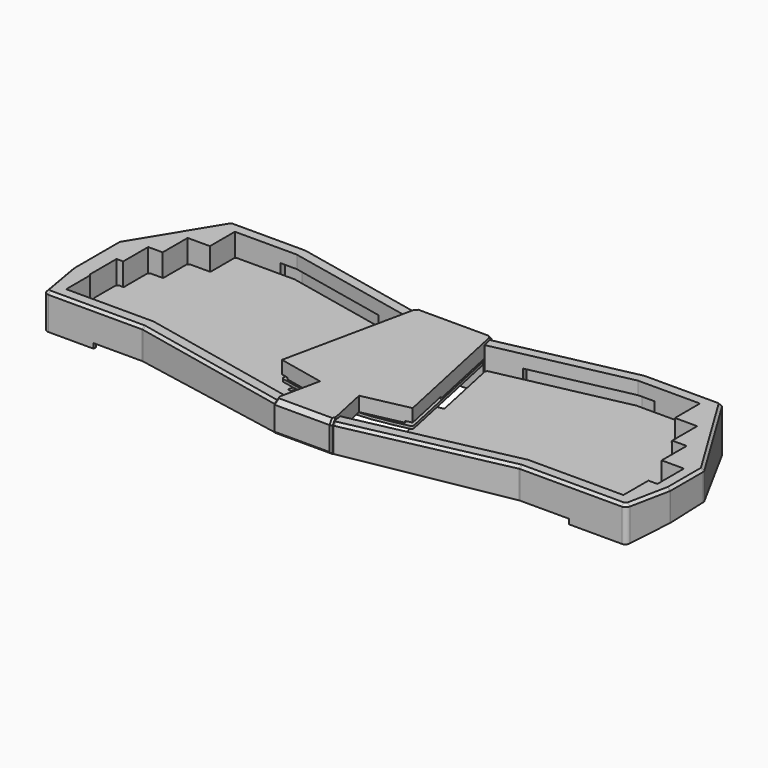
from build123d import *

# Parameters (mm, degrees)
PAD_DEPTH       = 1.6
FILLET_R        = 1.5
FILLET001_R     = 0.8
PAD001_DEPTH    = 40
POCKET_DEPTH    = 400
POCKET001_DEPTH = 50
POCKET001_TAPER = 70
POCKET002_DEPTH = 50
POCKET002_TAPER = 70
POCKET003_DEPTH = 3
POCKET005_DEPTH = 16.8
POCKET007_DEPTH = 22
POCKET012_DEPTH = 59
PAD006_DEPTH    = 3.5
PAD007_DEPTH    = 3.5
SKETCH026_W     = 15
SKETCH026_H     = 4
PAD008_DEPTH    = 3.5
SKETCH027_W     = 15
SKETCH027_H     = 4
PAD009_DEPTH    = 3.5
FILLET003_R     = 8
FILLET004_R     = 3
CHAMFER_SIZE    = 1.6
POCKET019_DEPTH = 200
SKETCH038_R     = 2
POCKET025_DEPTH = 6.7
PAD015_DEPTH    = 3.5
PAD016_DEPTH    = 3.5
POCKET035_DEPTH = 115
PAD010_DEPTH    = 1.6
FILLET002_R     = 1.5
PAD011_DEPTH    = 28.4
POCKET017_DEPTH = 50
POCKET018_DEPTH = 19.6
POCKET020_DEPTH = 26
POCKET021_DEPTH = 16
POCKET022_DEPTH = 19
POCKET023_DEPTH = 25
POCKET024_DEPTH = 1
CHAMFER001_SIZE = 2.6
CHAMFER002_SIZE = 1.2
SKETCH045_R     = 4.5
SKETCH045_R_2   = 2
PAD013_DEPTH    = 5.6
SKETCH046_R     = 2
POCKET030_DEPTH = 6.7
SKETCH047_R     = 2
POCKET031_DEPTH = 5.7
POCKET032_DEPTH = 13
CHAMFER003_SIZE = 1
SKETCH054_R     = 3.6
SKETCH054_R_2   = 2
PAD014_DEPTH    = 1
SKETCH055_W     = 19
SKETCH055_H     = 36
POCKET033_DEPTH = 1
PAD017_DEPTH    = 8
PAD018_DEPTH    = 8
FILLET005_R     = 1


with BuildPart() as pcb:
    # Sketch001 → Pad (new body)
    with BuildSketch(Plane.XY):
        with BuildLine():
            Line((-25.6569009013, 76.7143133761), (-104.1862885277, 93.40625))
            Line((-104.1862885277, 93.40625), (-140.3865264554, 93.40625))
            Line((-140.3865264554, 93.40625), (-140.3865264554, 74.35625))
            Line((-140.3865264554, 74.35625), (-153.9607289552, 74.35625))
            Line((-153.9607289552, 74.35625), (-153.9607289552, 55.30625))
            Line((-153.9607289552, 55.30625), (-162.772431455, 55.30625))
            Line((-162.772431455, 55.30625), (-162.772431455, 36.25625))
            Line((-162.772431455, 36.25625), (-166.8216339549, 36.25625))
            Line((-166.8216339549, 36.25625), (-166.8216339549, 18.7896622428))
            Line((-166.8216339549, 18.7896622428), (-166.1083364547, 18.0000001221))
            Line((-166.1083364547, 18.0000001221), (-166.1083364547, -0.25625))
            Line((-166.1083364547, -0.25625), (-114.0306139632, -0.25625))
            Line((-114.0306139632, -0.25625), (-33.0319665059, -17.4730440034))
            ThreePointArc((-33.0319665059, -17.4730440034), (0, -21.0075427473), (33.0319665059, -17.4730440034))
            Line((114.0306139632, -0.25625), (33.0319665059, -17.4730440034))
            Line((114.0306139632, -0.25625), (170.8708364547, -0.25625))
            Line((170.8708364547, -0.25625), (170.8708364547, 18.79375))
            Line((170.8708364547, 18.79375), (176.3466339549, 18.79375))
            Line((176.3466339549, 18.79375), (176.3466339549, 36.25625))
            Line((176.3466339549, 36.25625), (162.772431455, 36.25625))
            Line((162.772431455, 36.25625), (162.772431455, 55.30625))
            Line((162.772431455, 55.30625), (153.9607289552, 55.30625))
            Line((153.9607289552, 55.30625), (153.9607289552, 74.35625))
            Line((153.9607289552, 74.35625), (140.3865264554, 74.35625))
            Line((140.3865264554, 74.35625), (140.3865264554, 93.40625))
            Line((140.3865264554, 93.40625), (104.1862885277, 93.40625))
            Line((104.1862885277, 93.40625), (25.6569009013, 76.7143133761))
            Line((34.7896818101, 33.7479573294), (25.6569009013, 76.7143133761))
            Line((29.5137981886, 32.626533647), (34.7896818101, 33.7479573294))
            Line((35.8509465247, 2.8125947766), (29.5137981886, 32.626533647))
            ThreePointArc((-35.8509465247, 2.8125947766), (0, -2.07), (35.8509465247, 2.8125947766))
            Line((-35.8509465247, 2.8125947766), (-29.5137981886, 32.626533647))
            Line((-29.5137981886, 32.626533647), (-34.7896818101, 33.7479573294))
            Line((-34.7896818101, 33.7479573294), (-25.6569009013, 76.7143133761))
        make_face()
    extrude(amount=PAD_DEPTH)

    # Fillet
    fillet_edges = [pcb.edges().sort_by_distance(p)[0] for p in [
        (-166.108336, -0.25625, 0.8),
        (-166.821634, 36.25625, 0.8),
        (-162.772431, 55.30625, 0.8),
        (-153.960729, 74.35625, 0.8),
        (-140.386526, 93.40625, 0.8),
        (-25.656901, 76.714313, 0.8),
        (25.656901, 76.714313, 0.8),
        (140.386526, 93.40625, 0.8),
        (153.960729, 74.35625, 0.8),
        (162.772431, 55.30625, 0.8),
        (176.346634, 36.25625, 0.8),
        (176.346634, 18.79375, 0.8),
        (170.870836, -0.25625, 0.8),
        (-114.030614, -0.25625, 0.8),
        (114.030614, -0.25625, 0.8),
        (-104.186289, 93.40625, 0.8),
        (104.186289, 93.40625, 0.8),
    ]]
    fillet(fillet_edges, radius=FILLET_R)

    # Fillet001
    fillet001_edges = [pcb.edges().sort_by_distance(p)[0] for p in [
        (-34.789682, 33.747957, 0.8),
        (-29.513798, 32.626534, 0.8),
        (-35.850947, 2.812595, 0.8),
        (-140.386526, 74.35625, 0.8),
        (-153.960729, 55.30625, 0.8),
        (-162.772431, 36.25625, 0.8),
        (-166.108336, 18, 0.8),
        (-166.821634, 18.789662, 0.8),
        (35.850947, 2.812595, 0.8),
        (29.513798, 32.626534, 0.8),
        (34.789682, 33.747957, 0.8),
        (140.386526, 74.35625, 0.8),
        (153.960729, 55.30625, 0.8),
        (162.772431, 36.25625, 0.8),
        (170.870836, 18.79375, 0.8),
    ]]
    fillet(fillet001_edges, radius=FILLET001_R)


with BuildPart() as pcb_1:
    # Body001 placement: moved
    add(pcb.part.moved(Location((0, 0, 5.4))))


with BuildPart() as body002:
    # Sketch002 → Pad001 (new body)
    with BuildSketch(Plane.XY.offset(-20.2)):
        Polygon((-149.4960240693, 102.2), (-179.6153839549, 52.8352871714), (-179.6153839549, 18), (-174.9020864547, -9.05), (-114.9548743321, -9.05), (-18.2317807246, -29.6091282113), (18.2317807246, -29.6091282113), (114.9548743321, -9.05), (179.6645864547, -9.05), (185.1403839549, 18), (185.1403839549, 43.7799805707), (149.4960240693, 102.2), (103.2620281588, 102.2), (23.0521728121, 85.1508689355), (-23.0521728121, 85.1508689355), (-103.2620281588, 102.2), align=None)
    extrude(amount=PAD001_DEPTH)

    # Sketch004 → Pocket (cut)
    with BuildSketch(Plane.YZ.offset(200)):
        Polygon((-29.6091282113, 0), (427.5929638991, -40), (-34.6091282113, -40), (-34.6091282113, 0), align=None)
    extrude(amount=-POCKET_DEPTH, mode=Mode.SUBTRACT)

    # Sketch005 (on Face2 of Pocket) → Pocket001 (cut)
    with BuildSketch(Plane(origin=(0, -0.2249145944, -2.5707855781), x_dir=(1, 0, 0), z_dir=(0, -0.0871557427, -0.9961946981))):
        Polygon((179.664586, 8.858796), (139.4960240693, -102.8161611286), (-829.867004, -717.988555), (0, -4000), (8000, 0), (0, 4000), (-701.29071, 993.332806), align=None)
    extrude(amount=-POCKET001_DEPTH, taper=POCKET001_TAPER, mode=Mode.SUBTRACT)

    # Sketch006 (on Face2 of Pocket001) → Pocket002 (cut)
    with BuildSketch(Plane(origin=(0, -0.2249145944, -2.5707855781), x_dir=(1, 0, 0), z_dir=(0, -0.0871557427, -0.9961946981))):
        Polygon((-174.9020864547, 8.8587957981), (-139.4960240693, -102.8161611286), (0, -4000), (-8000, 0), (0, 4000), align=None)
    extrude(amount=-POCKET002_DEPTH, taper=POCKET002_TAPER, mode=Mode.SUBTRACT)

    # Sketch007 (on Face19 of Pocket002) → Pocket003 (cut)
    with BuildSketch(Plane(origin=(0, -0.2249145944, -2.5707855781), x_dir=(1, 0, 0), z_dir=(0, -0.0871557427, -0.9961946981))):
        Polygon((-172.1698836043, 6.8587957981), (-144.9548743321, 6.8587957981), (-144.9548743321, 8.8587957981), (-144.9548743321, 29.4964565392), (-88.6830095072, 29.4964565392), (0, 55.200555), (88.6830096055, 29.496457), (144.9548743321, 29.496457), (144.9548743321, 8.8587957981), (144.9548743321, 6.8587957981), (176.8197582998, 6.8587957981), (138.0899634837, -100.8161611286), (103.4730219471, -100.8161611286), (72.3688065106, -94.1795015486), (71.9514637892, -96.1354731877), (70.5260154697, -102.8161611286), (-70.5260154697, -102.8161611286), (-71.9514637892, -96.1354731877), (-72.3688065106, -94.1795015486), (-103.4730219471, -100.8161611286), (-138.0320039292, -100.8161611286), align=None)
    extrude(amount=-POCKET003_DEPTH, mode=Mode.SUBTRACT)

    # Sketch003 → Pocket005 (cut)
    with BuildSketch(Plane.XY.offset(19.8)):
        Polygon((-141.7802764554, 94.8), (-141.7802764554, 75.75), (-155.3544789552, 75.75), (-155.3544789552, 56.7), (-164.166181455, 56.7), (-164.166181455, 37.65), (-168.2153839549, 37.65), (-168.2153839549, 17.4), (-167.5020864547, 16.6867024998), (-167.5020864547, -1.65), (-152.5020864547, -1.65), (-126.7802764554, 94.8), align=None)
        Polygon((157.2645864547, -1.65), (172.2645864547, -1.65), (172.2645864547, 17.4), (177.7403839549, 17.4), (177.7403839549, 37.65), (164.166181455, 37.65), (164.166181455, 56.7), (155.3544789552, 56.7), (155.3544789552, 75.75), (141.7802764554, 75.75), (141.7802764554, 94.8), (126.7802764554, 94.8), align=None)
    extrude(amount=-POCKET005_DEPTH, mode=Mode.SUBTRACT)

    # Sketch012 → Pocket007 (cut)
    with BuildSketch(Plane.XY.offset(-10)):
        Polygon((-44.2784183533, 81.4839219459), (-43.4259804209, 85.4943271089), (-103.6719346763, 98.3), (-114.0802764554, 98.3), (-114.0802764554, 94.2), (-149.2770864547, -1.05), (-149.2770864547, -5.15), (-114.5449678146, -5.15), (-42.8527627495, -20.3886486072), (-42.0003248171, -16.3782434442), (-111.178681455, 37.05), align=None)
        Polygon((44.2784183533, 81.4839219459), (43.4259804209, 85.4943271089), (103.6719346763, 98.3), (114.0802764554, 98.3), (114.0802764554, 94.2), (149.2770864547, -1.05), (149.2770864547, -5.15), (114.5449678146, -5.15), (42.8527627495, -20.3886486072), (42.0003248171, -16.3782434442), (111.178681455, 37.05), align=None)
    extrude(amount=POCKET007_DEPTH, mode=Mode.SUBTRACT)

    # Sketch017 → Pocket012 (cut)
    with BuildSketch(Plane.XY.offset(40)):
        Polygon((-164.7812608877, -1.65), (-114.1771029911, -1.65), (-16.6932414892, -22.3708344192), (16.6932414892, -22.3708344192), (114.1771029911, -1.65), (169.1251097712, -1.65), (134.3003201796, 94.8), (104.0397994998, 94.8), (24.5907120235, 77.9125751382), (-24.5907120235, 77.9125751382), (-104.0397994998, 94.8), (-134.0853982624, 94.8), align=None)
    extrude(amount=-POCKET012_DEPTH, mode=Mode.SUBTRACT)

    # Sketch024 (on Face92 of Pocket012) → Pad006 (join)
    with BuildSketch(Plane(origin=(-5.9988132418, -28.2221973985, 0), x_dir=(-0.9781476007, 0.2079116908, 0), z_dir=(0.2079116908, 0.9781476007, 0))):
        Polygon((47.675634708, 2.0229030007), (47.675634708, 6.0229030006), (62.6731537758, 5.7500993892), (62.6731537758, 1.7500993892), align=None)
    extrude(amount=PAD006_DEPTH)

    # Sketch025 (on Face94 of Pad006) → Pad007 (join)
    with BuildSketch(Plane(origin=(5.9988132418, -28.2221973985, 0), x_dir=(-0.9781476007, -0.2079116908, 0), z_dir=(-0.2079116908, 0.9781476007, 0))):
        Polygon((-47.675634708, 2.0229030007), (-47.675634708, 6.0229030007), (-62.6731537758, 5.7500993892), (-62.6731537758, 1.7500993892), align=None)
    extrude(amount=PAD007_DEPTH)

    # Sketch026 (on Face91 of Pad007) → Pad008 (join)
    with BuildSketch(Plane(origin=(0, -5.15, 0), x_dir=(-1, 0, 0), z_dir=(0, 1, 0))):
        with Locations((131.7770864547, 2.8715630744)):
            Rectangle(SKETCH026_W, SKETCH026_H)
    extrude(amount=PAD008_DEPTH)

    # Sketch027 (on Face97 of Pad008) → Pad009 (join)
    with BuildSketch(Plane(origin=(0, -5.15, 0), x_dir=(-1, 0, 0), z_dir=(0, 1, 0))):
        with Locations((-131.7770864547, 2.8715630744)):
            Rectangle(SKETCH027_W, SKETCH027_H)
    extrude(amount=PAD009_DEPTH)

    # Fillet003
    fillet003_edges = [body002.edges().sort_by_distance(p)[0] for p in [
        (134.30032, 94.8, -2.436464),
        (138.089963, 100.338344, -9.863201),
        (-134.085398, 94.8, -2.436464),
        (-138.032004, 100.338344, -9.863201),
        (169.12511, -1.65, 1.782676),
        (176.819758, -6.926877, -0.47871),
        (-164.781261, -1.65, 1.782676),
        (-172.169884, -6.926877, -0.47871),
    ]]
    fillet(fillet003_edges, radius=FILLET003_R)

    # Fillet004
    fillet004_edges = [body002.edges().sort_by_distance(p)[0] for p in [
        (-174.902086, -9.05, 9.000655),
        (-179.615384, 18, 10.115146),
        (-179.615384, 52.835287, 10.503488),
        (-149.496024, 102.2, 5.858877),
        (-114.954874, -9.05, 10.506384),
        (-18.231781, -29.609128, 11.40573),
        (18.231781, -29.609128, 11.40573),
        (114.954874, -9.05, 10.506384),
        (179.664586, -9.05, 9.000655),
        (185.140384, 18, 10.409616),
        (185.140384, 43.779981, 10.864903),
        (149.496024, 102.2, 5.834753),
        (103.262028, 102.2, 4.134098),
        (23.052173, 85.150869, 6.38563),
        (-23.052173, 85.150869, 6.38563),
        (-103.262028, 102.2, 4.134098),
    ]]
    fillet(fillet004_edges, radius=FILLET004_R)

    # Chamfer
    chamfer_edges = [body002.edges().sort_by_distance(p)[0] for p in [
        (-177.452971, 5.589733, 19.8),
    ]]
    chamfer(chamfer_edges, length=CHAMFER_SIZE)

    # Sketch032 → Pocket019 (cut)
    with BuildSketch(Plane.XY):
        Polygon((-10, -38.338413), (10, -38.338413), (10, -15.045521), (10, 62.395123), (10, 94.439026), (-10, 94.439026), (-10, 62.395123), (-10, -15.045521), align=None)
    extrude(amount=POCKET019_DEPTH, mode=Mode.SUBTRACT)

    # Sketch038 (on Face53 of Pocket019) → Pocket025 (cut)
    with BuildSketch(Plane(origin=(0, 0.0365526338, 0.4177985162), x_dir=(1, 0, 0), z_dir=(0, -0.0871557427, -0.9961946981))):
        with Locations((-152.8770864547, 4.7929949909)):
            Circle(SKETCH038_R)
        with Locations((-117.6802764554, -98.7254283402)):
            Circle(SKETCH038_R)
        with Locations((117.6802764554, -98.7254283402)):
            Circle(SKETCH038_R)
        with Locations((152.8770864547, 4.7929949909)):
            Circle(SKETCH038_R)
        with Locations((31.1362598613, 23.092329532)):
            Circle(SKETCH038_R)
        with Locations((-31.1362598613, 23.092329532)):
            Circle(SKETCH038_R)
        with Locations((-31.6633816813, -83.3636160948)):
            Circle(SKETCH038_R)
        with Locations((31.6633816813, -83.3636160948)):
            Circle(SKETCH038_R)
    extrude(amount=-POCKET025_DEPTH, mode=Mode.SUBTRACT)

    # Sketch057 (on Face148 of Pocket025) → Pad015 (join)
    with BuildSketch(Plane(origin=(15.5096511733, 72.9671718974, 0), x_dir=(0.9781476007, -0.2079116908, 0), z_dir=(-0.2079116908, -0.9781476007, 0))):
        Polygon((-85.2481537758, -7.1133944772), (-70.250634708, -6.8405908657), (-70.250634708, -2.8405908657), (-85.2481537758, -3.1133944772), align=None)
    extrude(amount=PAD015_DEPTH)

    # Sketch058 (on Face151 of Pad015) → Pad016 (join)
    with BuildSketch(Plane(origin=(-15.5096511733, 72.9671718974, 0), x_dir=(0.9781476007, 0.2079116908, 0), z_dir=(0.2079116908, -0.9781476007, 0))):
        Polygon((70.250634708, -6.8406570349), (85.2481537758, -7.1134606463), (85.2481537758, -3.1134606463), (70.250634708, -2.8406570349), align=None)
    extrude(amount=PAD016_DEPTH)

    # Sketch061 (on Face13 of Pad016) → Pocket035 (cut, symmetric)
    with BuildSketch(Plane.XZ.offset(-77.9125751382)):
        Polygon((-10, 14.8), (-15, 9.8), (-10, 4.8), align=None)
        Polygon((10, 14.8), (15, 9.8), (10, 4.8), align=None)
    extrude(amount=POCKET035_DEPTH, both=True, mode=Mode.SUBTRACT)


with BuildPart() as pcb_core:
    # Sketch028 → Pad010 (new body)
    with BuildSketch(Plane.XY):
        with BuildLine():
            Line((-24.2903297212, 76.8006881296), (24.2903297212, 76.8006881296))
            Line((24.2903297212, 76.8006881296), (39.9356560509, 3.1952148064))
            Line((39.9356560509, 3.1952148064), (29.998245005, 1.0829528826))
            ThreePointArc((-29.998245005, 1.0829528826), (0, -2.07), (29.998245005, 1.0829528826))
            Line((-39.9356560509, 3.1952148064), (-29.998245005, 1.0829528826))
            Line((-39.9356560509, 3.1952148064), (-24.2903297212, 76.8006881296))
        make_face()
    extrude(amount=PAD010_DEPTH)

    # Fillet002
    fillet002_edges = [pcb_core.edges().sort_by_distance(p)[0] for p in [
        (-39.935656, 3.195215, 0.8),
        (-24.29033, 76.800688, 0.8),
        (24.29033, 76.800688, 0.8),
        (39.935656, 3.195215, 0.8),
    ]]
    fillet(fillet002_edges, radius=FILLET002_R)


with BuildPart() as pcb_core_1:
    # Body007 placement: moved
    add(pcb_core.part.moved(Location((0, 0, 10))))


with BuildPart() as case_core:
    # Sketch029 → Pad011 (new body)
    with BuildSketch(Plane.XY):
        Polygon((-17.9584668663, -31.2091282113), (-11.8943740038, -2.6798143436), (-39.844852054, 3.2612431678), (-22.0854419765, 86.7508689355), (22.0986779565, 86.7508689355), (39.846701604, 3.2529824996), (11.896133913, -2.6880940655), (17.9584668663, -31.2091282113), align=None)
    extrude(amount=PAD011_DEPTH)

    # Sketch030 → Pocket017 (cut, symmetric)
    with BuildSketch(Plane.YZ):
        Polygon((-31.2091282114, 0), (-31.2091282114, 10.1399818616), (84.6913948162, 0), align=None)
    extrude(amount=POCKET017_DEPTH, both=True, mode=Mode.SUBTRACT)

    # Sketch031 → Pocket018 (cut)
    with BuildSketch(Plane.XY):
        with BuildLine():
            Line((171.6645864547, -20.7708337586), (171.6645864547, 76.7508689355))
            Line((171.6645864547, 76.7508689355), (-166.9020864547, 76.7508689355))
            Line((-166.9020864547, 76.7508689355), (-166.9020864547, -20.7708337586))
            Line((-166.9020864547, -20.7708337586), (-14.6128973912, -20.7708337586))
            ThreePointArc((-14.6128973912, -20.7708337586), (0, -21.3708337586), (14.6128973912, -20.7708337586))
            Line((171.6645864547, -20.7708337586), (14.6128973912, -20.7708337586))
        make_face()
    extrude(amount=POCKET018_DEPTH, mode=Mode.SUBTRACT)

    # Sketch033 → Pocket020 (cut)
    with BuildSketch(Plane.YZ.offset(-9.6)):
        Polygon((-29.6091282114, -7.025155), (-29.6091282114, 25.2), (-28.0091282114, 26.8), (-22.3708337586, 26.8), (-22.3708337586, -7.025155), align=None)
    extrude(amount=-POCKET020_DEPTH, mode=Mode.SUBTRACT)

    # Sketch034 → Pocket021 (cut)
    with BuildSketch(Plane.YZ.offset(-9.6)):
        Polygon((85.1508689355, -10.772844), (85.1508689355, 25.2), (83.5508689355, 26.8), (77.9108689355, 26.8), (77.9108689355, -10.772844), align=None)
    extrude(amount=-POCKET021_DEPTH, mode=Mode.SUBTRACT)

    # Sketch035 → Pocket022 (cut)
    with BuildSketch(Plane.YZ.offset(9.6)):
        Polygon((-29.6091282114, -7.025155), (-29.6091282114, 25.2), (-28.0091282114, 26.8), (-22.3708337586, 26.8), (-22.3708337586, -7.025155), align=None)
    extrude(amount=POCKET022_DEPTH, mode=Mode.SUBTRACT)

    # Sketch036 → Pocket023 (cut)
    with BuildSketch(Plane.YZ.offset(9.6)):
        Polygon((85.1508689355, -10.772844), (85.1508689355, 25.2), (83.5508689355, 26.8), (77.9108689355, 26.8), (77.9108689355, -10.772844), align=None)
    extrude(amount=POCKET023_DEPTH, mode=Mode.SUBTRACT)

    # Sketch037 (on Face2 of Pocket023) → Pocket024 (cut)
    with BuildSketch(Plane(origin=(0, 0, 19.6), x_dir=(1, 0, 0), z_dir=(0, 0, -1))):
        Polygon((-39.844852054, -3.2612431678), (-35.9322616511, -2.4295964045), (-29.6904916408, -31.7730847305), (-33.6030820438, -32.6047314938), align=None)
        Polygon((35.934111201, -2.4213357363), (29.6967604765, -31.7657637584), (33.6093508794, -32.5974105216), (39.846701604, -3.2529824996), align=None)
    extrude(amount=-POCKET024_DEPTH, mode=Mode.SUBTRACT)

    # Chamfer001
    chamfer001_edges = [case_core.edges().sort_by_distance(p)[0] for p in [
        (0, -31.209128, 28.4),
        (0.006618, 86.750869, 28.4),
    ]]
    chamfer(chamfer001_edges, length=CHAMFER001_SIZE)

    # Chamfer002
    chamfer002_edges = [case_core.edges().sort_by_distance(p)[0] for p in [
        (0, -31.209128, 10.139982),
        (0.006618, 86.750869, 0),
        (17.958467, -31.209128, 17.969991),
        (-17.958467, -31.209128, 17.969991),
        (-17.682143, -29.909128, 27.1),
        (17.682143, -29.909128, 27.1),
        (22.098678, 86.750869, 12.9),
        (22.375001, 85.450869, 27.1),
        (-22.36197, 85.450869, 27.1),
        (-22.085442, 86.750869, 12.9),
    ]]
    chamfer(chamfer002_edges, length=CHAMFER002_SIZE)

    # Sketch045 → Pad013 (join)
    with BuildSketch(Plane.XY.offset(19.6)):
        with Locations((0, -10.4867326534)):
            Circle(SKETCH045_R)
        with Locations((0, -10.4867326534)):
            Circle(SKETCH045_R_2, mode=Mode.SUBTRACT)
    extrude(amount=-PAD013_DEPTH)

    # Sketch046 (on Face55 of Pad013) → Pocket030 (cut)
    with BuildSketch(Plane(origin=(0, 0, 14), x_dir=(1, 0, 0), z_dir=(0, 0, -1))):
        with Locations((0, 10.4867326534)):
            Circle(SKETCH046_R)
    extrude(amount=-POCKET030_DEPTH, mode=Mode.SUBTRACT)

    # Sketch047 → Pocket031 (cut)
    with BuildSketch(Plane.XY.offset(18.6)):
        with Locations((-20.778249147, 72.3256881296)):
            Circle(SKETCH047_R)
        with Locations((20.778249147, 72.3256881296)):
            Circle(SKETCH047_R)
    extrude(amount=POCKET031_DEPTH, mode=Mode.SUBTRACT)

    # Sketch048 (on Face30 of Pocket031) → Pocket032 (cut)
    with BuildSketch(Plane.XZ.offset(-76.7508689355)):
        with BuildLine():
            ThreePointArc((-4, 13.5), (-7.5, 10), (-4, 6.5))
            Line((-4, 6.5), (4, 6.5))
            ThreePointArc((4, 6.5), (7.5, 10), (4, 13.5))
            Line((4, 13.5), (-4, 13.5))
        make_face()
    extrude(amount=-POCKET032_DEPTH, mode=Mode.SUBTRACT)

    # Chamfer003
    chamfer003_edges = [case_core.edges().sort_by_distance(p)[0] for p in [
        (0, 86.750869, 13.5),
        (0, 86.750869, 6.5),
        (-7.5, 86.750869, 10),
        (7.5, 86.750869, 10),
        (-7.5, 76.750869, 10),
        (0, 76.750869, 13.5),
        (7.5, 76.750869, 10),
        (0, 76.750869, 6.5),
    ]]
    chamfer(chamfer003_edges, length=CHAMFER003_SIZE)

    # Sketch054 → Pad014 (join)
    with BuildSketch(Plane.XY.offset(19.6)):
        with Locations((-20.778249147, 72.3256881296)):
            Circle(SKETCH054_R)
        with Locations((-20.778249147, 72.3256881296)):
            Circle(SKETCH054_R_2, mode=Mode.SUBTRACT)
        with Locations((20.778249147, 72.3256881296)):
            Circle(SKETCH054_R)
        with Locations((20.778249147, 72.3256881296)):
            Circle(SKETCH054_R_2, mode=Mode.SUBTRACT)
    extrude(amount=-PAD014_DEPTH)

    # Sketch055 (on Face7 of Pad014) → Pocket033 (cut)
    with BuildSketch(Plane(origin=(0, 0, 19.6), x_dir=(1, 0, 0), z_dir=(0, 0, -1))):
        with Locations((0, -58.7508689355)):
            Rectangle(SKETCH055_W, SKETCH055_H)
    extrude(amount=-POCKET033_DEPTH, mode=Mode.SUBTRACT)

    # Sketch060 (on Face23 of Pocket033) → Pad017 (join)
    with BuildSketch(Plane.XZ.offset(-85.1508689355)):
        Polygon((9.6, 11.8), (14.6, 16.8), (9.6, 21.8), align=None)
        Polygon((-9.6, 21.8), (-14.6, 16.8), (-9.6, 11.8), align=None)
    extrude(amount=PAD017_DEPTH)

    # Sketch062 (on Face68 of Pad017) → Pad018 (join)
    with BuildSketch(Plane.XZ.offset(22.3708337586)):
        Polygon((9.6, 11.8), (14.6, 16.8), (9.6, 21.8), align=None)
        Polygon((-9.6, 21.8), (-14.6, 16.8), (-9.6, 11.8), align=None)
    extrude(amount=PAD018_DEPTH)

    # Fillet005
    fillet005_edges = [case_core.edges().sort_by_distance(p)[0] for p in [
        (-14.6, -25.989981, 16.8),
        (14.6, -25.989981, 16.8),
        (14.6, 81.530869, 16.8),
        (-14.6, 81.530869, 16.8),
    ]]
    fillet(fillet005_edges, radius=FILLET005_R)


with BuildPart() as case_core_1:
    # Body008 placement: moved
    add(case_core.part.moved(Location((0, 0, -7))))


solid = Compound([pcb_1.part, body002.part, pcb_core_1.part, case_core_1.part])
